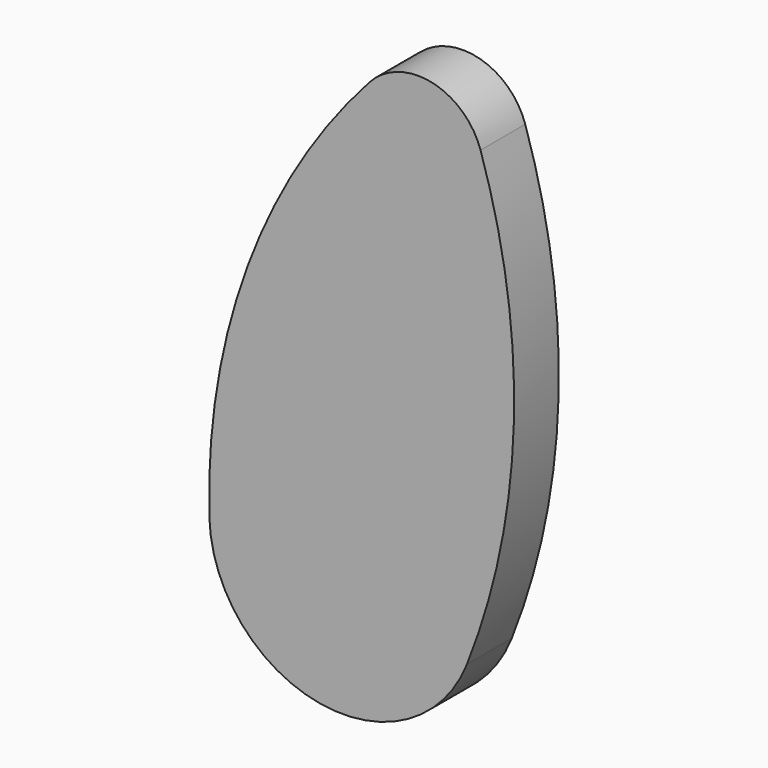
from build123d import *

# Parameters (mm, degrees)
F1_DEPTH = 15.24


with BuildPart() as f1:
    # F0 (on Front) → F1 (new body)
    with BuildSketch(Plane.XZ):
        with BuildLine():
            ThreePointArc((27.732145, -56.686579), (40.500229, 5.27296), (31.42261, 67.87971))
            ThreePointArc((31.42261, 67.87971), (18.117977, 79.805902), (1.123751, 74.288331))
            ThreePointArc((1.123751, 74.288331), (-32.165366, 19.165795), (-42.482226, -44.396943))
            ThreePointArc((-42.482226, -44.396943), (-12.380996, -79.142286), (27.732145, -56.686579))
        make_face()
    extrude(amount=F1_DEPTH)


solid = f1.part
